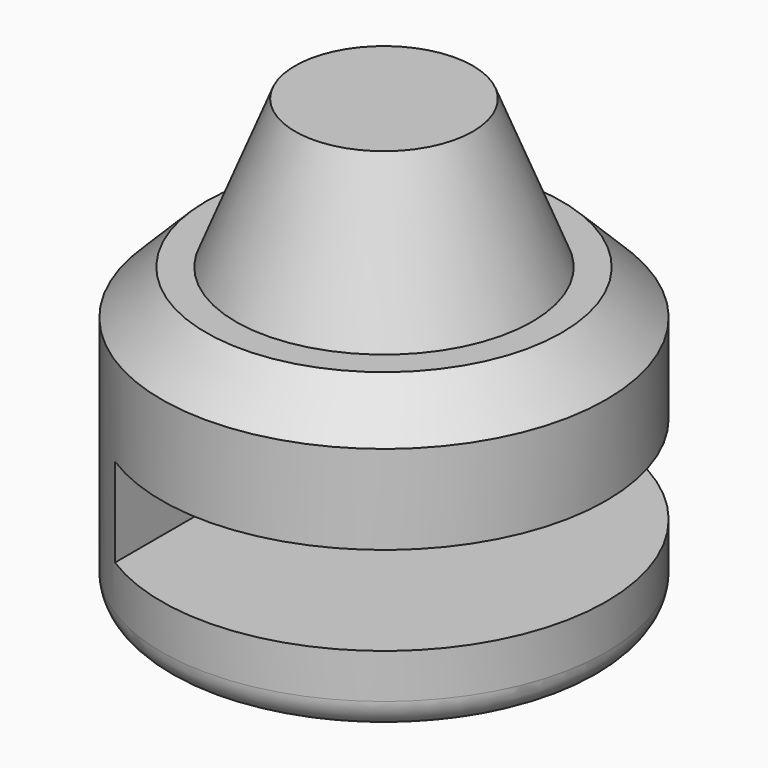
from build123d import *

# Parameters (mm, degrees)
F0_R     = 75
F1_DEPTH = 100
F2_R     = 10
F3_SIZE  = 15
F4_W     = 150
F4_H     = 30
F5_DEPTH = 125


with BuildPart() as f1:
    # F0 (on Top) → F1 (new body)
    with BuildSketch(Plane.XY):
        Circle(F0_R)
    extrude(amount=F1_DEPTH)

    # F2
    f2_edges = [f1.edges().sort_by_distance(p)[0] for p in [
        (-75, 0, 0),
    ]]
    fillet(f2_edges, radius=F2_R)

    # F3
    f3_edges = [f1.edges().sort_by_distance(p)[0] for p in [
        (-75, 0, 100),
    ]]
    chamfer(f3_edges, length=F3_SIZE)

    # F4 (on Front) → F5 (cut, symmetric)
    with BuildSketch(Plane.XZ):
        with Locations((35, 40)):
            Rectangle(F4_W, F4_H)
    extrude(amount=F5_DEPTH, both=True, mode=Mode.SUBTRACT)

    # F6 (on Front) → F7 (revolve)
    with BuildSketch(Plane.XZ):
        Polygon((0, 150), (0, 100), (50, 100), (30, 150), align=None)
    revolve(axis=Axis((0, 0, 125), (0, 0, 1)))


solid = f1.part
